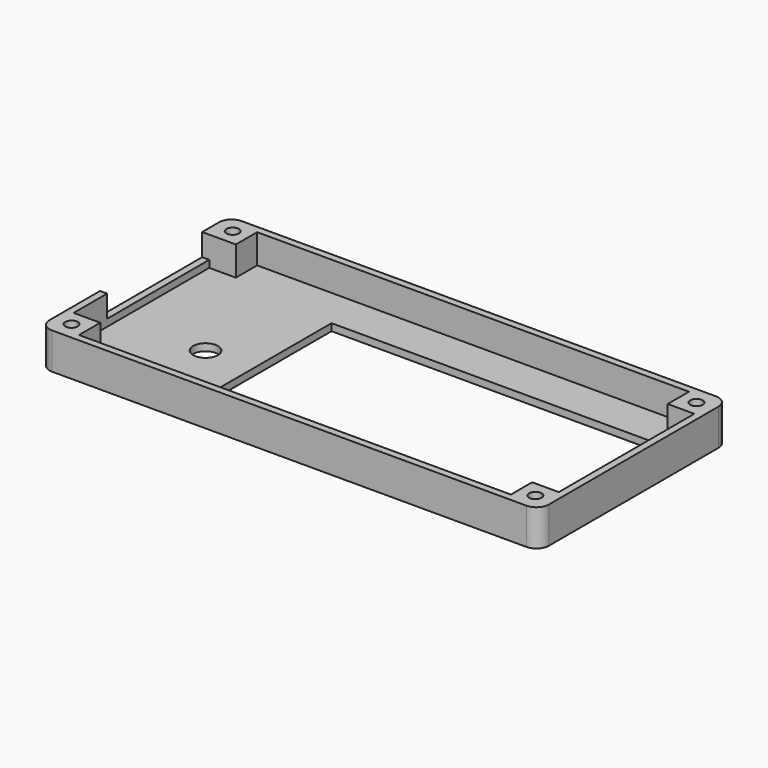
from build123d import *

# Parameters (mm, degrees)
F0_W     = 140.8
F0_H     = 66.8
F0_R     = 1.75
F0_R_2   = 3.5
F0_W_2   = 7.5
F0_H_2   = 47.8
F0_H_3   = 7.5
F0_W_3   = 121.8
F1_DEPTH = 10.25
F2_DEPTH = 8.25
F3_R     = 3.5
F4_R     = 3
F5_DEPTH = 3
F6_W     = 36
F6_H     = 6.25
F7_DEPTH = 2


with BuildPart() as f1:
    # F0 (on Top) → F1 (new body)
    with BuildSketch(Plane.XY):
        with Locations((70.4, 33.4)):
            Rectangle(F0_W, F0_H)
        Polygon((2, 57.3), (2, 64.8), (9.5, 64.8), (131.3, 64.8), (138.8, 64.8), (138.8, 57.3), (138.8, 9.5), (138.8, 2), (131.3, 2), (9.5, 2), (2, 2), (2, 9.5), align=None, mode=Mode.SUBTRACT)
        Polygon((131.3, 57.3), (9.5, 57.3), (9.5, 9.5), (131.3, 9.5), (131.3, 13.275), (39.5, 13.275), (39.5, 53.525), (131.3, 53.525), align=None)
        with Locations((21.5, 11.5)):
            Circle(F0_R, mode=Mode.SUBTRACT)
        with Locations((31.5, 11.5)):
            Circle(F0_R, mode=Mode.SUBTRACT)
        with Locations((26, 26)):
            Circle(F0_R_2, mode=Mode.SUBTRACT)
        with Locations((5.75, 33.4)):
            Rectangle(F0_W_2, F0_H_2)
        with Locations((5.75, 61.05)):
            Rectangle(F0_W_2, F0_H_3)
        with Locations((5, 61.8)):
            Circle(F0_R, mode=Mode.SUBTRACT)
        with Locations((70.4, 61.05)):
            Rectangle(F0_W_3, F0_H_3)
        with Locations((135.05, 61.05)):
            Rectangle(F0_W_2, F0_H_3)
        with Locations((135.8, 61.8)):
            Circle(F0_R, mode=Mode.SUBTRACT)
        Polygon((138.8, 57.3), (131.3, 57.3), (131.3, 53.525), (138, 53.525), (138, 13.275), (131.3, 13.275), (131.3, 9.5), (138.8, 9.5), align=None)
        with Locations((135.05, 5.75)):
            Rectangle(F0_W_2, F0_H_3)
        with Locations((135.8, 5)):
            Circle(F0_R, mode=Mode.SUBTRACT)
        with Locations((70.4, 5.75)):
            Rectangle(F0_W_3, F0_H_3)
        with Locations((5.75, 5.75)):
            Rectangle(F0_W_2, F0_H_3)
        with Locations((5, 5)):
            Circle(F0_R, mode=Mode.SUBTRACT)
    extrude(amount=-F1_DEPTH)

    # F0 (on Top) → F2 (cut)
    with BuildSketch(Plane.XY):
        with Locations((70.4, 61.05)):
            Rectangle(F0_W_3, F0_H_3)
        Polygon((131.3, 57.3), (9.5, 57.3), (9.5, 9.5), (131.3, 9.5), (131.3, 13.275), (39.5, 13.275), (39.5, 53.525), (131.3, 53.525), align=None)
        with Locations((21.5, 11.5)):
            Circle(F0_R, mode=Mode.SUBTRACT)
        with Locations((31.5, 11.5)):
            Circle(F0_R, mode=Mode.SUBTRACT)
        with Locations((26, 26)):
            Circle(F0_R_2, mode=Mode.SUBTRACT)
        with Locations((70.4, 5.75)):
            Rectangle(F0_W_3, F0_H_3)
        with Locations((5.75, 33.4)):
            Rectangle(F0_W_2, F0_H_2)
        Polygon((138.8, 57.3), (131.3, 57.3), (131.3, 53.525), (138, 53.525), (138, 13.275), (131.3, 13.275), (131.3, 9.5), (138.8, 9.5), align=None)
    extrude(amount=-F2_DEPTH, mode=Mode.SUBTRACT)

    # F3
    f3_edges = [f1.edges().sort_by_distance(p)[0] for p in [
        (140.8, 66.8, -5.125),
        (0, 66.8, -5.125),
        (0, 0, -5.125),
        (140.8, 0, -5.125),
    ]]
    fillet(f3_edges, radius=F3_R)

    # F4 (on face) → F5 (cut)
    with BuildSketch(Plane(origin=(0, 0, -10.25), x_dir=(1, 0, 0), z_dir=(0, 0, -1))):
        with Locations((5, -5)):
            Circle(F4_R)
        with Locations((135.8, -5)):
            Circle(F4_R)
        with Locations((135.8, -61.8)):
            Circle(F4_R)
        with Locations((5, -61.8)):
            Circle(F4_R)
    extrude(amount=-F5_DEPTH, mode=Mode.SUBTRACT)

    # F6 (on face) → F7 (cut)
    with BuildSketch(Plane(origin=(0, 0, 0), x_dir=(0, -1, 0), z_dir=(-1, 0, 0))):
        with Locations((-39.3, -3.125)):
            Rectangle(F6_W, F6_H)
    extrude(amount=-F7_DEPTH, mode=Mode.SUBTRACT)


solid = f1.part
